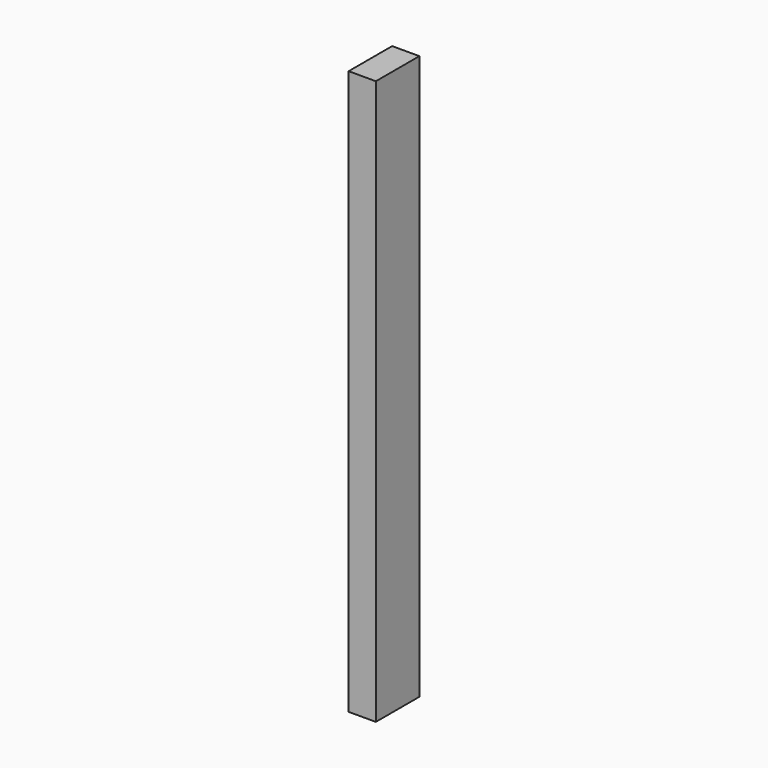
from build123d import *

# Parameters (mm, degrees)
F0_W     = 20
F0_H     = 40
F1_DEPTH = 400
F2_DEPTH = 15


with BuildPart() as f1:
    # F0 (on Top) → F1 (new body)
    with BuildSketch(Plane.XY):
        with Locations((10, -20)):
            Rectangle(F0_W, F0_H)
    extrude(amount=F1_DEPTH)

    # F0 (on Top) → F2 (join)
    with BuildSketch(Plane.XY):
        with Locations((10, -20)):
            Rectangle(F0_W, F0_H)
    extrude(amount=-F2_DEPTH)


solid = f1.part
